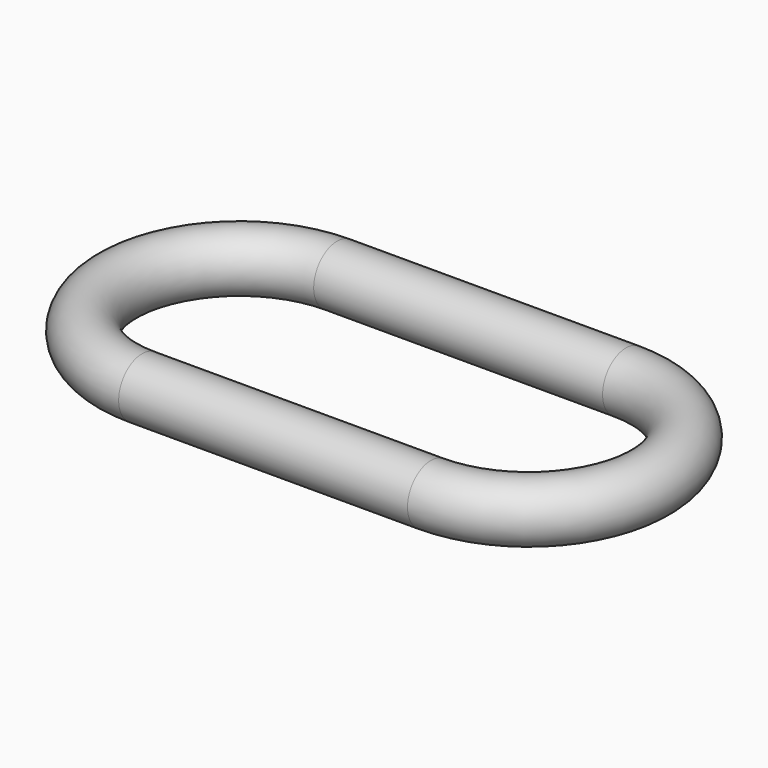
from build123d import *

# Parameters (mm, degrees)
F2_R = 0.5


with BuildPart() as f3:
    # F3: sweep along a path in F0
    with BuildLine(Plane.XY) as f3_path:
        Line((2.47015, -2.08496), (-2.47015, -2.08496))
        ThreePointArc((-2.47015, -2.08496), (-4.55511, 0), (-2.47015, 2.08496))
        Line((-2.47015, 2.08496), (2.47015, 2.08496))
        ThreePointArc((2.47015, 2.08496), (4.55511, 0), (2.47015, -2.08496))
    # F2 (on plane+point) → F3 (sweep)
    with BuildSketch(Plane.YZ.offset(-2.47015)):
        with Locations((2.08496, 0)):
            Circle(F2_R)
    sweep(path=f3_path.line)


solid = f3.part
